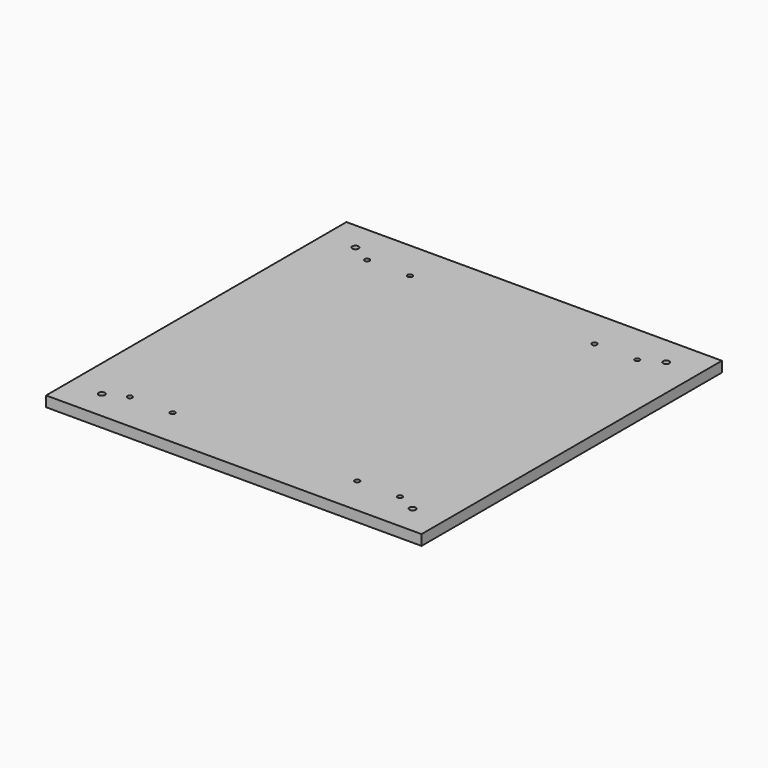
from build123d import *

# Parameters (mm, degrees)
CYLINDER011_R     = 3
CYLINDER011_DEPTH = 80
CYLINDER010_R     = 3
CYLINDER010_DEPTH = 80
CYLINDER009_R     = 3
CYLINDER009_DEPTH = 80
CYLINDER008_R     = 3
CYLINDER008_DEPTH = 80
CYLINDER007_R     = 2.35
CYLINDER007_DEPTH = 100
CYLINDER006_R     = 2.35
CYLINDER006_DEPTH = 100
CYLINDER005_R     = 2.35
CYLINDER005_DEPTH = 100
CYLINDER004_R     = 2.35
CYLINDER004_DEPTH = 100
CYLINDER003_R     = 2.35
CYLINDER003_DEPTH = 100
CYLINDER002_R     = 2.35
CYLINDER002_DEPTH = 100
CYLINDER001_R     = 2.35
CYLINDER001_DEPTH = 100
CYLINDER_R        = 2.35
CYLINDER_DEPTH    = 100
BOX_W             = 360
BOX_H             = 360
BOX_DEPTH         = 10


with BuildPart() as cylinder011:
    # Cylinder011 → Cylinder011 (new body)
    with BuildSketch(Plane(origin=(1124.33, 402.894, 72.563), x_dir=(1, 0, 0), z_dir=(0, 0, 1))):
        Circle(CYLINDER011_R)
    extrude(amount=CYLINDER011_DEPTH)


with BuildPart() as cylinder010:
    # Cylinder010 → Cylinder010 (new body)
    with BuildSketch(Plane(origin=(826.334, 402.894, 72.563), x_dir=(1, 0, 0), z_dir=(0, 0, 1))):
        Circle(CYLINDER010_R)
    extrude(amount=CYLINDER010_DEPTH)


with BuildPart() as cylinder009:
    # Cylinder009 → Cylinder009 (new body)
    with BuildSketch(Plane(origin=(1124.33, 98.8936, 72.563), x_dir=(1, 0, 0), z_dir=(0, 0, 1))):
        Circle(CYLINDER009_R)
    extrude(amount=CYLINDER009_DEPTH)


with BuildPart() as cylinder008:
    # Cylinder008 → Cylinder008 (new body)
    with BuildSketch(Plane(origin=(826.334, 98.8936, 72.563), x_dir=(1, 0, 0), z_dir=(0, 0, 1))):
        Circle(CYLINDER008_R)
    extrude(amount=CYLINDER008_DEPTH)


with BuildPart() as cylinder007:
    # Cylinder007 → Cylinder007 (new body)
    with BuildSketch(Plane(origin=(1104.809448, 392.584259, 42.012749), x_dir=(1, 0, 0), z_dir=(0, 0, 1))):
        Circle(CYLINDER007_R)
    extrude(amount=CYLINDER007_DEPTH)


with BuildPart() as cylinder006:
    # Cylinder006 → Cylinder006 (new body)
    with BuildSketch(Plane(origin=(1063.807983, 392.588165, 42.012753), x_dir=(1, 0, 0), z_dir=(0, 0, 1))):
        Circle(CYLINDER006_R)
    extrude(amount=CYLINDER006_DEPTH)


with BuildPart() as cylinder005:
    # Cylinder005 → Cylinder005 (new body)
    with BuildSketch(Plane(origin=(886.877197, 392.509613, 42.012726), x_dir=(1, 0, 0), z_dir=(0, 0, 1))):
        Circle(CYLINDER005_R)
    extrude(amount=CYLINDER005_DEPTH)


with BuildPart() as cylinder004:
    # Cylinder004 → Cylinder004 (new body)
    with BuildSketch(Plane(origin=(845.87915, 392.509552, 42.012745), x_dir=(1, 0, 0), z_dir=(0, 0, 1))):
        Circle(CYLINDER004_R)
    extrude(amount=CYLINDER004_DEPTH)


with BuildPart() as cylinder003:
    # Cylinder003 → Cylinder003 (new body)
    with BuildSketch(Plane(origin=(1104.809326, 108.200371, 42.012733), x_dir=(1, 0, 0), z_dir=(0, 0, 1))):
        Circle(CYLINDER003_R)
    extrude(amount=CYLINDER003_DEPTH)


with BuildPart() as cylinder002:
    # Cylinder002 → Cylinder002 (new body)
    with BuildSketch(Plane(origin=(1063.882812, 108.200386, 42.012733), x_dir=(1, 0, 0), z_dir=(0, 0, 1))):
        Circle(CYLINDER002_R)
    extrude(amount=CYLINDER002_DEPTH)


with BuildPart() as cylinder001:
    # Cylinder001 → Cylinder001 (new body)
    with BuildSketch(Plane(origin=(886.821289, 108.200371, 42.012745), x_dir=(1, 0, 0), z_dir=(0, 0, 1))):
        Circle(CYLINDER001_R)
    extrude(amount=CYLINDER001_DEPTH)


with BuildPart() as cylinder:
    # Cylinder → Cylinder (new body)
    with BuildSketch(Plane(origin=(845.878784, 108.200371, 42.012741), x_dir=(1, 0, 0), z_dir=(0, 0, 1))):
        Circle(CYLINDER_R)
    extrude(amount=CYLINDER_DEPTH)


with BuildPart() as cut011:
    # Box → Box (new body)
    with BuildSketch(Plane(origin=(795.334, 70.893601, 98.539999), x_dir=(1, 0, 0), z_dir=(0, 0, 1))):
        with Locations((180, 180)):
            Rectangle(BOX_W, BOX_H)
    extrude(amount=BOX_DEPTH)

    # Cut: cut Cylinder
    add(cylinder.part, mode=Mode.SUBTRACT)

    # Cut001: cut Cylinder001
    add(cylinder001.part, mode=Mode.SUBTRACT)

    # Cut002: cut Cylinder002
    add(cylinder002.part, mode=Mode.SUBTRACT)

    # Cut003: cut Cylinder003
    add(cylinder003.part, mode=Mode.SUBTRACT)

    # Cut004: cut Cylinder004
    add(cylinder004.part, mode=Mode.SUBTRACT)

    # Cut005: cut Cylinder005
    add(cylinder005.part, mode=Mode.SUBTRACT)

    # Cut006: cut Cylinder006
    add(cylinder006.part, mode=Mode.SUBTRACT)

    # Cut007: cut Cylinder007
    add(cylinder007.part, mode=Mode.SUBTRACT)

    # Cut008: cut Cylinder008
    add(cylinder008.part, mode=Mode.SUBTRACT)

    # Cut009: cut Cylinder009
    add(cylinder009.part, mode=Mode.SUBTRACT)

    # Cut010: cut Cylinder010
    add(cylinder010.part, mode=Mode.SUBTRACT)

    # Cut011: cut Cylinder011
    add(cylinder011.part, mode=Mode.SUBTRACT)


solid = cut011.part
